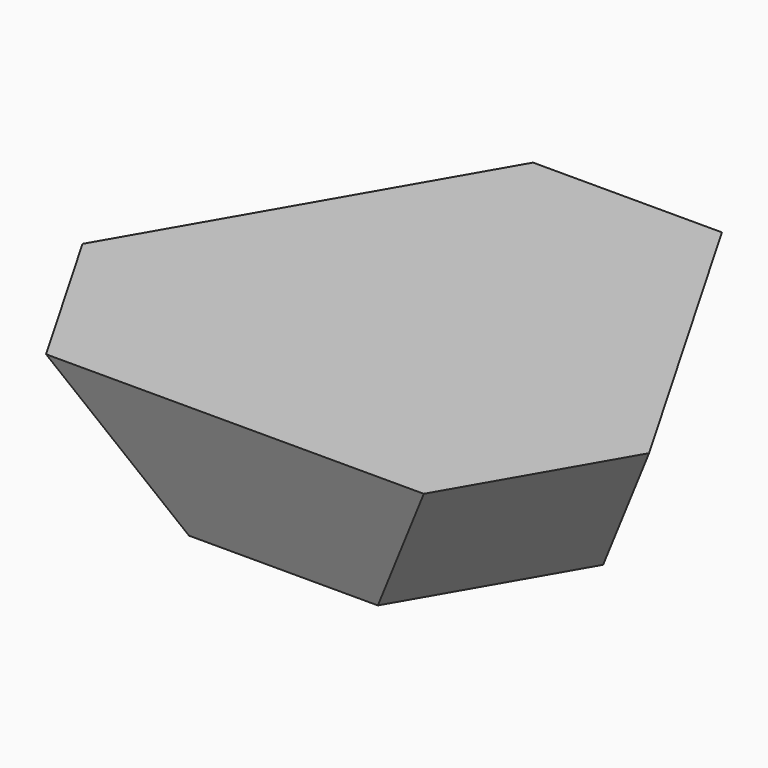
from build123d import *


with BuildPart() as f3:
    # F2 (on offset) → F3 section 0
    with BuildSketch(Plane.XY.offset(20.739013)):
        Polygon((12.793589, 35.726616), (-12.606411, 35.726616), (-38.006411, -8.267475), (-25.306411, -30.26452), (25.493589, -30.26452), (38.193589, -8.267475), align=None)
    # F0 (on Top) → F3 section 1
    with BuildSketch(Plane.XY):
        Polygon((12.7, -21.997045), (25.4, 0), (12.7, 21.997045), (-12.7, 21.997045), (-25.4, 0), (-12.7, -21.997045), align=None)
    loft()


solid = f3.part
